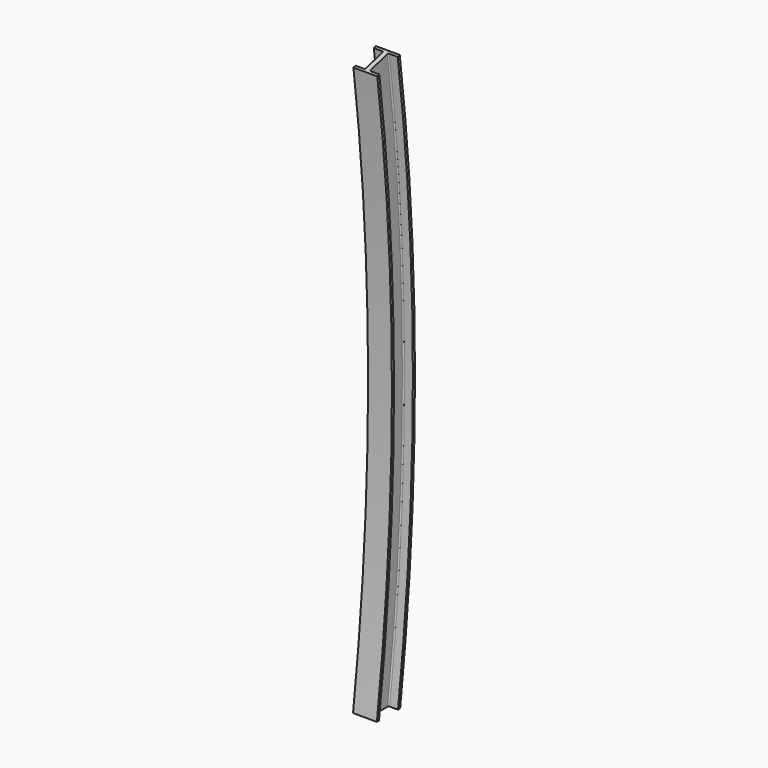
from build123d import *


with BuildPart() as f2:
    # F2: sweep along a path in F1
    with BuildLine(Plane.YZ) as f2_path:
        ThreePointArc((0, 0), (99.326365, 1522.178173), (0, 3044.356346))
    # F0 (on Top) → F2 (sweep)
    with BuildSketch(Plane.XY):
        with BuildLine():
            Line((-12.7, 57.016547), (-12.7, -57.016547))
            ThreePointArc((-12.7, -57.016547), (-14.559872, -61.506675), (-19.05, -63.366547))
            Line((-19.05, -63.366547), (-63.5, -63.366547))
            Line((-63.5, -63.366547), (-63.5, -77.336547))
            Line((-63.5, -77.336547), (0, -77.336547))
            Line((0, -77.336547), (63.5, -77.336547))
            Line((63.5, -77.336547), (63.5, -63.366547))
            Line((63.5, -63.366547), (19.05, -63.366547))
            ThreePointArc((19.05, -63.366547), (14.559872, -61.506675), (12.7, -57.016547))
            Line((12.7, -57.016547), (12.7, 57.016547))
            ThreePointArc((12.7, 57.016547), (14.559872, 61.506675), (19.05, 63.366547))
            Line((19.05, 63.366547), (63.5, 63.366547))
            Line((63.5, 63.366547), (63.5, 77.336547))
            Line((63.5, 77.336547), (0, 77.336547))
            Line((0, 77.336547), (-63.5, 77.336547))
            Line((-63.5, 77.336547), (-63.5, 63.366547))
            Line((-63.5, 63.366547), (-19.05, 63.366547))
            ThreePointArc((-19.05, 63.366547), (-14.559872, 61.506675), (-12.7, 57.016547))
        make_face()
    sweep(path=f2_path.line)


solid = f2.part
